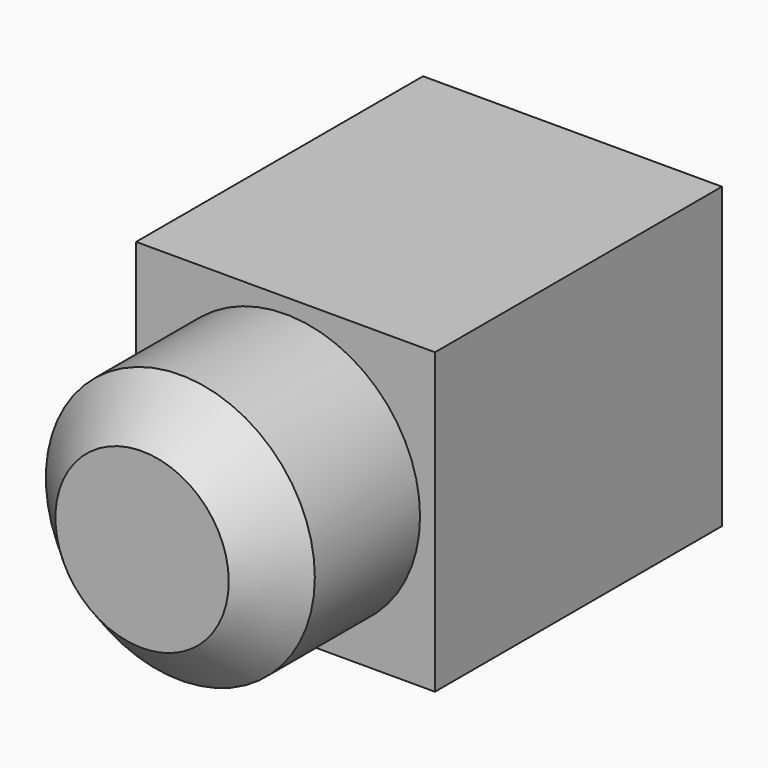
from build123d import *

# Parameters (mm, degrees)
F0_W     = 31.75
F0_H     = 31.75
F1_DEPTH = 19.05
F2_R     = 14.2875
F3_DEPTH = 19.05
F4_SIZE  = 5.08
F5_T     = -2.54


with BuildPart() as f1:
    # F0 (on Front) → F1 (new body, symmetric)
    with BuildSketch(Plane.XZ):
        Rectangle(F0_W, F0_H)
    extrude(amount=F1_DEPTH, both=True)

    # F2 (on face) → F3 (join)
    with BuildSketch(Plane.XZ.offset(19.05)):
        Circle(F2_R)
    extrude(amount=F3_DEPTH)

    # F4
    f4_edges = [f1.edges().sort_by_distance(p)[0] for p in [
        (-14.2875, -38.1, 0),
    ]]
    chamfer(f4_edges, length=F4_SIZE)

    # F5
    f5_openings = [f1.faces().sort_by_distance(p)[0] for p in [
        (0, 19.05, 0),
    ]]
    offset(amount=F5_T, openings=f5_openings, kind=Kind.INTERSECTION)


solid = f1.part
